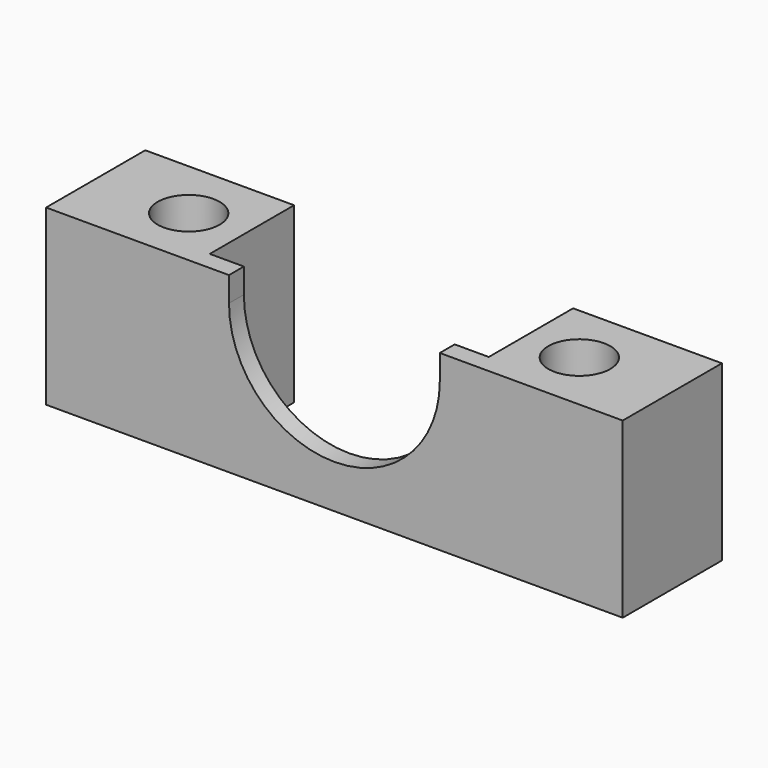
from build123d import *

# Parameters (mm, degrees)
F0_R     = 2.5
F1_DEPTH = 14
F3_DEPTH = 25


with BuildPart() as f1:
    # F0 (on Top) → F1 (new body)
    with BuildSketch(Plane.XY):
        Polygon((-11.25, 5), (-23.25, 5), (-23.25, -5), (23.25, -5), (23.25, 5), (11.25, 5), (11.25, -3.5), (-11.25, -3.5), align=None)
        with Locations((-15.75, 0)):
            Circle(F0_R, mode=Mode.SUBTRACT)
        with Locations((15.75, 0)):
            Circle(F0_R, mode=Mode.SUBTRACT)
    extrude(amount=F1_DEPTH)

    # F2 (on face) → F3 (cut)
    with BuildSketch(Plane.XZ.offset(5)):
        with BuildLine():
            Line((-8.5, 14), (-8.5, 12))
            ThreePointArc((-8.5, 12), (0, 3.5), (8.5, 12))
            Line((8.5, 12), (8.5, 14))
            Line((8.5, 14), (-8.5, 14))
        make_face()
    extrude(amount=-F3_DEPTH, mode=Mode.SUBTRACT)


solid = f1.part
